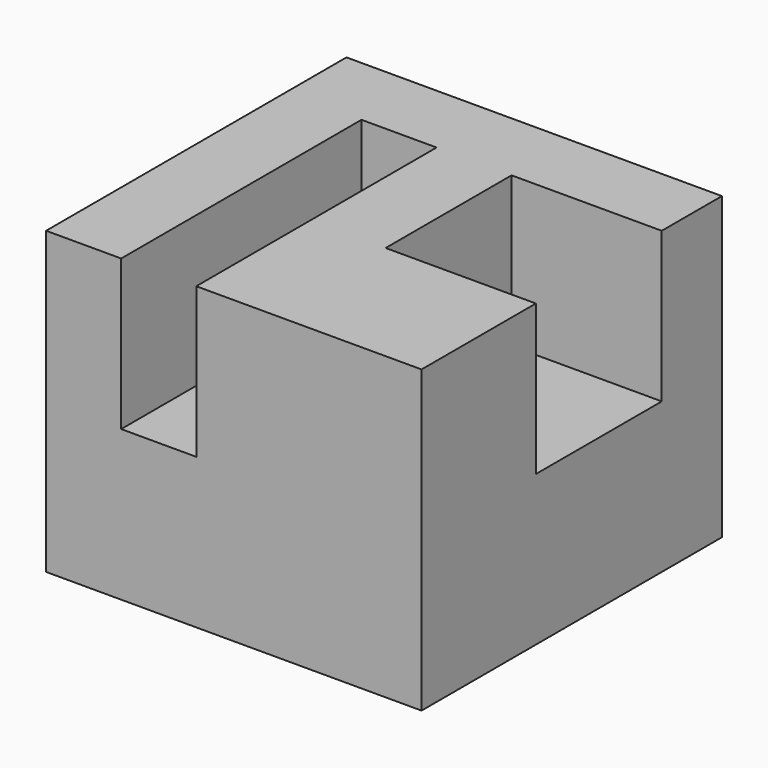
from build123d import *

# Parameters (mm, degrees)
F0_W     = 63.5
F0_H     = 63.5
F1_DEPTH = 50.8
F2_W     = 25.4
F2_H     = 26.618414
F2_W_2   = 12.7
F2_H_2   = 50.8
F3_DEPTH = 25.4


with BuildPart() as f1:
    # F0 (on Top) → F1 (new body)
    with BuildSketch(Plane.XY):
        with Locations((-9.749767, -13.921356)):
            Rectangle(F0_W, F0_H)
    extrude(amount=F1_DEPTH)

    # F2 (on face) → F3 (cut)
    with BuildSketch(Plane.XY.offset(50.8)):
        with Locations((9.300233, -8.202186)):
            Rectangle(F2_W, F2_H)
        with Locations((-22.449767, -20.271356)):
            Rectangle(F2_W_2, F2_H_2)
    extrude(amount=-F3_DEPTH, mode=Mode.SUBTRACT)


solid = f1.part
